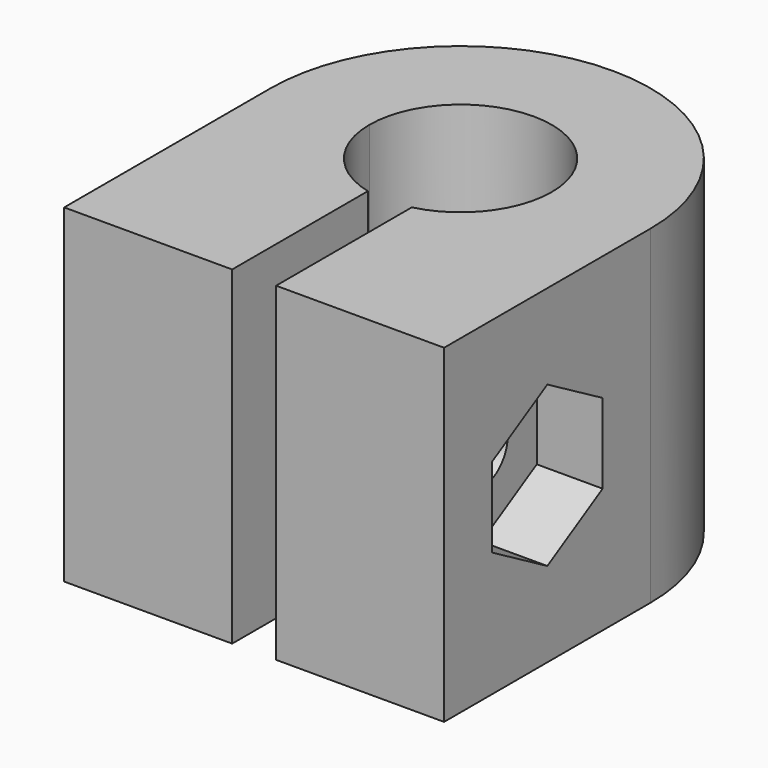
from build123d import *

# Parameters (mm, degrees)
F1_DEPTH = 15
F2_R     = 1.5
F3_DEPTH = 17.301
F5_DEPTH = 3
F6_R     = 2.75
F7_DEPTH = 2


with BuildPart() as f1:
    # F0 (on Top) → F1 (new body)
    with BuildSketch(Plane.XY):
        with BuildLine():
            Line((-1, -11.7513947189), (-1, -8.592002095))
            ThreePointArc((-1, -8.592002095), (-6.4603598971, -5.7520648466), (-8.65, 0))
            Line((-8.65, 0), (-8.65, -11.7513947189))
            Line((-8.65, -11.7513947189), (-1, -11.7513947189))
        make_face()
        with BuildLine():
            ThreePointArc((8.65, 0), (6.4603598971, -5.7520648466), (1, -8.592002095))
            Line((1, -8.592002095), (1, -11.7513947189))
            Line((1, -11.7513947189), (8.65, -11.7513947189))
            Line((8.65, -11.7513947189), (8.65, 0))
        make_face()
        with BuildLine():
            Line((-8.65, 0), (-4.15, 0))
            ThreePointArc((-4.15, 0), (0, 4.15), (4.15, 0))
            Line((4.15, 0), (8.65, 0))
            ThreePointArc((8.65, 0), (0, 8.65), (-8.65, 0))
        make_face()
        with BuildLine():
            Line((-1, -8.592002095), (-1, -4.0277164746))
            ThreePointArc((-1, -4.0277164746), (-3.2689830223, -2.5566090824), (-4.15, 0))
            Line((-4.15, 0), (-8.65, 0))
            ThreePointArc((-8.65, 0), (-6.4603598971, -5.7520648466), (-1, -8.592002095))
        make_face()
        with BuildLine():
            ThreePointArc((4.15, 0), (3.2689830223, -2.5566090824), (1, -4.0277164746))
            Line((1, -4.0277164746), (1, -8.592002095))
            ThreePointArc((1, -8.592002095), (6.4603598971, -5.7520648466), (8.65, 0))
            Line((8.65, 0), (4.15, 0))
        make_face()
    extrude(amount=F1_DEPTH)

    # F2 (on face) → F3 (cut, through all)
    with BuildSketch(Plane.YZ.offset(8.65)):
        with Locations((-5.8756973594, 7.5)):
            Circle(F2_R)
    extrude(amount=-F3_DEPTH, mode=Mode.SUBTRACT)

    # F4 (on face) → F5 (cut)
    with BuildSketch(Plane.YZ.offset(8.65)):
        Polygon((-2.7256973594, 9.3186533479), (-5.8756973594, 11.1373066959), (-9.0256973594, 9.3186533479), (-9.0256973594, 5.6813466521), (-5.8756973594, 3.8626933041), (-2.7256973594, 5.6813466521), align=None)
    extrude(amount=-F5_DEPTH, mode=Mode.SUBTRACT)

    # F6 (on face) → F7 (cut)
    with BuildSketch(Plane(origin=(-8.65, 0, 0), x_dir=(0, -1, 0), z_dir=(-1, 0, 0))):
        with Locations((5.8756973594, 7.5)):
            Circle(F6_R)
    extrude(amount=-F7_DEPTH, mode=Mode.SUBTRACT)


solid = f1.part
